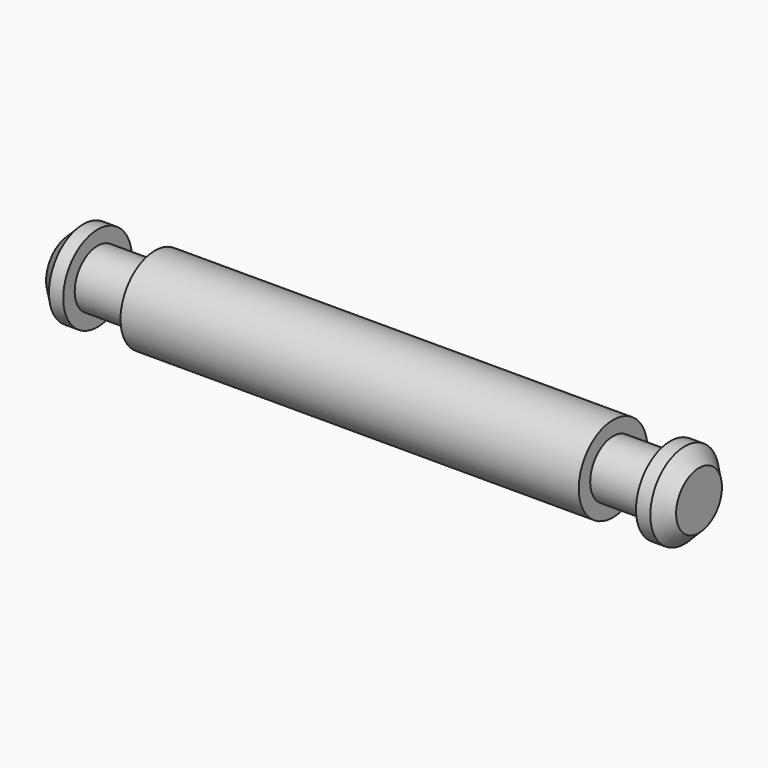
from build123d import *


with BuildPart() as f1:
    # F0 (on Front) → F1 (revolve)
    with BuildSketch(Plane.XZ):
        Polygon((-110, 0), (0, 0), (110, 0), (110, 10), (105, 15), (100, 15), (100, 10), (80, 10), (80, 15), (-80, 15), (-80, 10), (-100, 10), (-100, 15), (-105, 15), (-110, 10), align=None)
    revolve(axis=Axis((-55, 0, 0), (1, 0, 0)))


solid = f1.part
